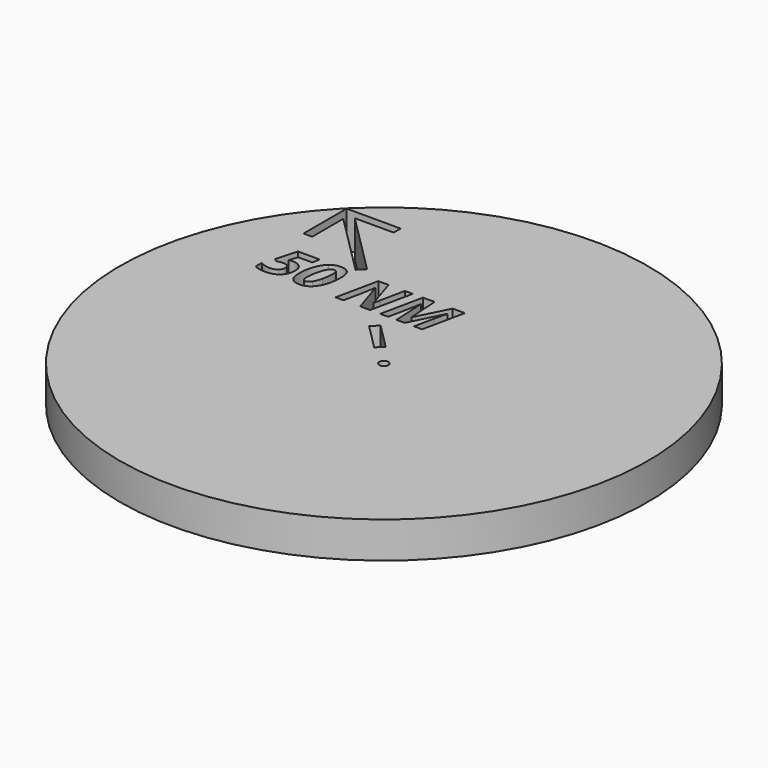
from build123d import *

# Parameters (mm, degrees)
F0_R     = 3.175
F1_DEPTH = 25.4


with BuildPart() as f1:
    # F0 (on Top) → F1 (new body)
    with BuildSketch(Plane.XY):
        with BuildLine():
            ThreePointArc((-133.1333395345, 128.643211474), (-69.377326194, -171.6401717668), (185.131202, 0))
            ThreePointArc((185.131202, 0), (72.3107515679, 170.4251071927), (-128.643211474, 133.1333395345))
            ThreePointArc((-128.643211474, 133.1333395345), (-130.9075283434, 130.9075283434), (-133.1333395345, 128.643211474))
        make_face()
        Circle(F0_R, mode=Mode.SUBTRACT)
        with BuildLine():
            add(Edge.make_bspline(
                [(-117.2195194436, 63.0731906782), (-115.760113076, 63.3780444528), (-114.6444779861, 63.3780444528)],
                knots=[0, 0, 0, 1, 1, 1], degree=2))
            add(Edge.make_bspline(
                [(-114.6444779861, 63.3780444528), (-110.9343426872, 63.3780444528), (-108.7873937642, 61.2927149098)],
                knots=[0, 0, 0, 1, 1, 1], degree=2))
            add(Edge.make_bspline(
                [(-108.7873937642, 61.2927149098), (-106.6404448413, 59.2073853668), (-106.6404448413, 55.4777913163)],
                knots=[0, 0, 0, 1, 1, 1], degree=2))
            add(Edge.make_bspline(
                [(-106.6404448413, 55.4777913163), (-106.6404448413, 52.0919685436), (-108.0901218331, 49.5558445892)],
                knots=[0, 0, 0, 1, 1, 1], degree=2))
            add(Edge.make_bspline(
                [(-108.0901218331, 49.5558445892), (-109.5397988249, 47.0197206349), (-112.3159140485, 45.6511217747)],
                knots=[0, 0, 0, 1, 1, 1], degree=2))
            add(Edge.make_bspline(
                [(-112.3159140485, 45.6511217747), (-115.0920292722, 44.2825229144), (-119.0032383373, 44.2825229144)],
                knots=[0, 0, 0, 1, 1, 1], degree=2))
            add(Edge.make_bspline(
                [(-119.0032383373, 44.2825229144), (-121.3772060285, 44.2825229144), (-123.4333474442, 44.749532952)],
                knots=[0, 0, 0, 1, 1, 1], degree=2))
            add(Edge.make_bspline(
                [(-123.4333474442, 44.749532952), (-125.4894888598, 45.2165429897), (-126.7283627096, 45.9300305471)],
                knots=[0, 0, 0, 1, 1, 1], degree=2))
            Line((-126.7283627096, 45.9300305471), (-126.7283627096, 51.3784809861))
            add(Edge.make_bspline(
                [(-126.7283627096, 51.3784809861), (-123.1998424253, 49.3742295746), (-119.5934871348, 49.3742295746)],
                knots=[0, 0, 0, 1, 1, 1], degree=2))
            add(Edge.make_bspline(
                [(-119.5934871348, 49.3742295746), (-116.4671143829, 49.3742295746), (-114.7060973661, 50.8141771906)],
                knots=[0, 0, 0, 1, 1, 1], degree=2))
            add(Edge.make_bspline(
                [(-114.7060973661, 50.8141771906), (-112.9450803492, 52.2541248066), (-112.9450803492, 54.7448450073)],
                knots=[0, 0, 0, 1, 1, 1], degree=2))
            add(Edge.make_bspline(
                [(-112.9450803492, 54.7448450073), (-112.9450803492, 56.6518026609), (-114.109362318, 57.6052814877)],
                knots=[0, 0, 0, 1, 1, 1], degree=2))
            add(Edge.make_bspline(
                [(-114.109362318, 57.6052814877), (-115.2736442868, 58.5587603145), (-117.485455715, 58.5587603145)],
                knots=[0, 0, 0, 1, 1, 1], degree=2))
            add(Edge.make_bspline(
                [(-117.485455715, 58.5587603145), (-119.5480833811, 58.5587603145), (-121.7988123125, 57.8841902602)],
                knots=[0, 0, 0, 1, 1, 1], degree=2))
            Line((-121.7988123125, 57.8841902602), (-123.9068437323, 59.4668353877))
            Line((-123.9068437323, 59.4668353877), (-119.7102396442, 74.3268353349))
            Line((-119.7102396442, 74.3268353349), (-104.4091746615, 74.3268353349))
            Line((-104.4091746615, 74.3268353349), (-105.5248097514, 69.0145961569))
            Line((-105.5248097514, 69.0145961569), (-115.4358005499, 69.0145961569))
            Line((-115.4358005499, 69.0145961569), (-117.2195194436, 63.0731906782))
        make_face(mode=Mode.SUBTRACT)
        Polygon((-11.5505048452, 16.0406329059), (-16.0406329058, 11.5505048454), (-34.0011451479, 29.5110170875), (-29.5110170874, 34.0011451481), align=None, mode=Mode.SUBTRACT)
        with BuildLine():
            add(Edge.make_bspline(
                [(-89.9967260004, 74.7938453725), (-81.9083715988, 74.7938453725), (-81.9083715988, 65.2071671002)],
                knots=[0, 0, 0, 1, 1, 1], degree=2))
            add(Edge.make_bspline(
                [(-81.9083715988, 65.2071671002), (-81.9083715988, 55.6788650825), (-85.3233824989, 49.9806939985)],
                knots=[0, 0, 0, 1, 1, 1], degree=2))
            add(Edge.make_bspline(
                [(-85.3233824989, 49.9806939985), (-88.738393399, 44.2825229144), (-94.9003313955, 44.2825229144)],
                knots=[0, 0, 0, 1, 1, 1], degree=2))
            add(Edge.make_bspline(
                [(-94.9003313955, 44.2825229144), (-98.9153204689, 44.2825229144), (-100.9941637614, 46.7570274888)],
                knots=[0, 0, 0, 1, 1, 1], degree=2))
            add(Edge.make_bspline(
                [(-100.9941637614, 46.7570274888), (-103.0730070539, 49.2315320631), (-103.0730070539, 54.1545962097)],
                knots=[0, 0, 0, 1, 1, 1], degree=2))
            add(Edge.make_bspline(
                [(-103.0730070539, 54.1545962097), (-103.0730070539, 60.1803229452), (-101.3703662917, 65.0450108371)],
                knots=[0, 0, 0, 1, 1, 1], degree=2))
            add(Edge.make_bspline(
                [(-101.3703662917, 65.0450108371), (-99.6677255295, 69.909698729), (-96.7489127944, 72.3517720507)],
                knots=[0, 0, 0, 1, 1, 1], degree=2))
            add(Edge.make_bspline(
                [(-96.7489127944, 72.3517720507), (-93.8301000592, 74.7938453725), (-89.9967260004, 74.7938453725)],
                knots=[0, 0, 0, 1, 1, 1], degree=2))
        make_face(mode=Mode.SUBTRACT)
        with BuildLine():
            Line((-39.2158706593, 74.3268353349), (-45.4815886641, 44.6911566973))
            Line((-45.4815886641, 44.6911566973), (-52.4153904727, 44.6911566973))
            Line((-52.4153904727, 44.6911566973), (-59.6281010538, 67.1076385033))
            Line((-59.6281010538, 67.1076385033), (-59.7513398137, 67.1076385033))
            Line((-59.7513398137, 67.1076385033), (-59.8356610705, 66.459013451))
            add(Edge.make_bspline(
                [(-59.8356610705, 66.459013451), (-60.4842861228, 62.0807943483), (-61.1718286782, 58.6365953208)],
                knots=[0, 0, 0, 1, 1, 1], degree=2))
            Line((-61.1718286782, 58.6365953208), (-64.1101001649, 44.6911566973))
            Line((-64.1101001649, 44.6911566973), (-69.6817893638, 44.6911566973))
            Line((-69.6817893638, 44.6911566973), (-63.4225576095, 74.3268353349))
            Line((-63.4225576095, 74.3268353349), (-56.1839020263, 74.3268353349))
            Line((-56.1839020263, 74.3268353349), (-49.2955039714, 52.494116076))
            Line((-49.2955039714, 52.494116076), (-49.2111827146, 52.494116076))
            add(Edge.make_bspline(
                [(-49.2111827146, 52.494116076), (-48.9711914453, 54.0378437003), (-48.4231032761, 56.8950370555)],
                knots=[0, 0, 0, 1, 1, 1], degree=2))
            add(Edge.make_bspline(
                [(-48.4231032761, 56.8950370555), (-47.875015107, 59.7522304107), (-44.7745873572, 74.3268353349)],
                knots=[0, 0, 0, 1, 1, 1], degree=2))
            Line((-44.7745873572, 74.3268353349), (-39.2158706593, 74.3268353349))
        make_face(mode=Mode.SUBTRACT)
        with BuildLine():
            Line((-22.5202618143, 52.1698035498), (-22.4359405575, 52.1698035498))
            Line((-22.4359405575, 52.1698035498), (-11.2666171577, 74.3268353349))
            Line((-11.2666171577, 74.3268353349), (-2.6917939669, 74.3268353349))
            Line((-2.6917939669, 74.3268353349), (-8.9575119716, 44.6911566973))
            Line((-8.9575119716, 44.6911566973), (-14.6329811789, 44.6911566973))
            Line((-14.6329811789, 44.6911566973), (-11.6947096922, 58.7209165776))
            add(Edge.make_bspline(
                [(-11.6947096922, 58.7209165776), (-10.6179921054, 63.7218157305), (-9.5672195208, 67.6589697977)],
                knots=[0, 0, 0, 1, 1, 1], degree=2))
            Line((-9.5672195208, 67.6589697977), (-9.6645132786, 67.6589697977))
            Line((-9.6645132786, 67.6589697977), (-21.2035529582, 44.6911566973))
            Line((-21.2035529582, 44.6911566973), (-26.898480917, 44.6911566973))
            Line((-26.898480917, 44.6911566973), (-28.1308685163, 67.6589697977))
            Line((-28.1308685163, 67.6589697977), (-28.2151897731, 67.6589697977))
            add(Edge.make_bspline(
                [(-28.2151897731, 67.6589697977), (-28.4357222909, 65.875250904), (-28.98381046, 62.9758969204)],
                knots=[0, 0, 0, 1, 1, 1], degree=2))
            add(Edge.make_bspline(
                [(-28.98381046, 62.9758969204), (-29.5318986292, 60.0765429368), (-32.7750238905, 44.6911566973)],
                knots=[0, 0, 0, 1, 1, 1], degree=2))
            Line((-32.7750238905, 44.6911566973), (-38.3467130893, 44.6911566973))
            Line((-38.3467130893, 44.6911566973), (-32.0874813351, 74.3268353349))
            Line((-32.0874813351, 74.3268353349), (-23.8953469251, 74.3268353349))
            Line((-23.8953469251, 74.3268353349), (-22.5202618143, 52.1698035498))
        make_face(mode=Mode.SUBTRACT)
        Polygon((-92.8075283434, 124.5575283434), (-120.0674002829, 124.5575283434), (-77.0277165371, 81.5178445977), (-81.5178445976, 77.0277165372), (-124.5575283434, 120.0674002829), (-124.5575283434, 92.8075283434), (-130.6535283434, 92.8075283434), (-130.6535283434, 130.6535283434), (-92.8075283434, 130.6535283434), align=None, mode=Mode.SUBTRACT)
    extrude(amount=F1_DEPTH)


with BuildPart() as f1b:
    # F0 (on Top) → F1, piece 2 (new body)
    with BuildSketch(Plane.XY):
        with BuildLine():
            add(Edge.make_bspline(
                [(-88.6702877685, 68.6902836308), (-89.2897246934, 69.7215974639), (-90.5415710443, 69.7215974639)],
                knots=[0, 0, 0, 1, 1, 1], degree=2))
            add(Edge.make_bspline(
                [(-90.5415710443, 69.7215974639), (-92.1631336749, 69.7215974639), (-93.5738931636, 67.613566044)],
                knots=[0, 0, 0, 1, 1, 1], degree=2))
            add(Edge.make_bspline(
                [(-93.5738931636, 67.613566044), (-94.9846526522, 65.5055346242), (-95.9575902306, 61.493788676)],
                knots=[0, 0, 0, 1, 1, 1], degree=2))
            add(Edge.make_bspline(
                [(-95.9575902306, 61.493788676), (-96.930527809, 57.4820427278), (-96.930527809, 54.0378437003)],
                knots=[0, 0, 0, 1, 1, 1], degree=2))
            add(Edge.make_bspline(
                [(-96.930527809, 54.0378437003), (-96.930527809, 51.7027935122), (-96.3727102641, 50.5190527918)],
                knots=[0, 0, 0, 1, 1, 1], degree=2))
            add(Edge.make_bspline(
                [(-96.3727102641, 50.5190527918), (-95.8148927191, 49.3353120715), (-94.3944038547, 49.3353120715)],
                knots=[0, 0, 0, 1, 1, 1], degree=2))
            add(Edge.make_bspline(
                [(-94.3944038547, 49.3353120715), (-92.7533824725, 49.3353120715), (-91.3458661091, 51.4822609944)],
                knots=[0, 0, 0, 1, 1, 1], degree=2))
            add(Edge.make_bspline(
                [(-91.3458661091, 51.4822609944), (-89.9383497457, 53.6292099174), (-88.9946002947, 57.5825796109)],
                knots=[0, 0, 0, 1, 1, 1], degree=2))
            add(Edge.make_bspline(
                [(-88.9946002947, 57.5825796109), (-88.0508508436, 61.5359493044), (-88.0508508436, 65.4082408664)],
                knots=[0, 0, 0, 1, 1, 1], degree=2))
            add(Edge.make_bspline(
                [(-88.0508508436, 65.4082408664), (-88.0508508436, 67.6589697977), (-88.6702877685, 68.6902836308)],
                knots=[0, 0, 0, 1, 1, 1], degree=2))
        make_face()
    extrude(amount=F1_DEPTH)


solid = Compound([f1.part, f1b.part])
